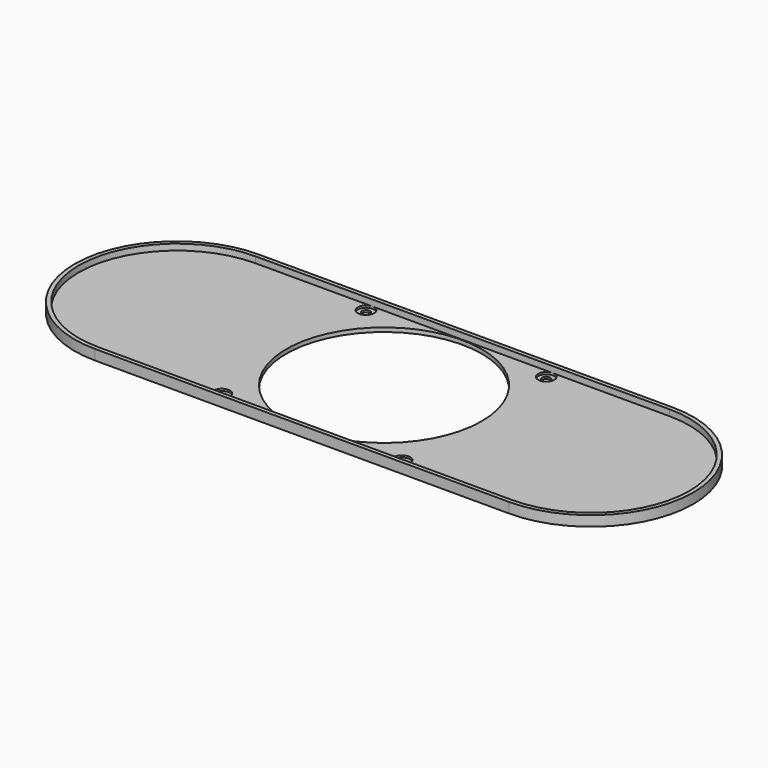
from build123d import *

# Parameters (mm, degrees)
F0_R     = 1.5875
F0_R_2   = 38.1
F1_DEPTH = 1.5875
F3_DEPTH = 2.38125
F4_R     = 3.175
F5_DEPTH = 0.79375


with BuildPart() as f1:
    # F0 (on Top) → F1 (new body)
    with BuildSketch(Plane.XY):
        with BuildLine():
            ThreePointArc((80.7339, -39.9161), (120.65, 0), (80.7339, 39.9161))
            Line((80.7339, 39.9161), (-80.7339, 39.9161))
            ThreePointArc((-80.7339, 39.9161), (-120.65, 0), (-80.7339, -39.9161))
            Line((-80.7339, -39.9161), (80.7339, -39.9161))
        make_face()
        with Locations((-35.1536, -35.1536)):
            Circle(F0_R, mode=Mode.SUBTRACT)
        with Locations((35.1536, -35.1536)):
            Circle(F0_R, mode=Mode.SUBTRACT)
        with Locations((-35.1536, 35.1536)):
            Circle(F0_R, mode=Mode.SUBTRACT)
        Circle(F0_R_2, mode=Mode.SUBTRACT)
        with Locations((35.1536, 35.1536)):
            Circle(F0_R, mode=Mode.SUBTRACT)
    extrude(amount=F1_DEPTH)

    # F2 (on face) → F3 (join)
    with BuildSketch(Plane.XY.offset(1.5875)):
        with BuildLine():
            Line((80.7339, 39.9161), (-80.7339, 39.9161))
            ThreePointArc((-80.7339, 39.9161), (-120.65, 0), (-80.7339, -39.9161))
            Line((-80.7339, -39.9161), (80.7339, -39.9161))
            ThreePointArc((80.7339, -39.9161), (120.65, 0), (80.7339, 39.9161))
        make_face()
        with BuildLine():
            ThreePointArc((80.7339, 38.3286), (119.0625, 0), (80.7339, -38.3286))
            Line((80.7339, -38.3286), (-80.7339, -38.3286))
            ThreePointArc((-80.7339, -38.3286), (-119.0625, 0), (-80.7339, 38.3286))
            Line((-80.7339, 38.3286), (80.7339, 38.3286))
        make_face(mode=Mode.SUBTRACT)
    extrude(amount=F3_DEPTH)

    # F4 (on face) → F5 (cut)
    with BuildSketch(Plane.XY.offset(1.5875)):
        with Locations((-35.1536, 35.1536)):
            Circle(F4_R)
        with Locations((35.1536, 35.1536)):
            Circle(F4_R)
        with Locations((35.1536, -35.1536)):
            Circle(F4_R)
        with Locations((-35.1536, -35.1536)):
            Circle(F4_R)
    extrude(amount=-F5_DEPTH, mode=Mode.SUBTRACT)


solid = f1.part
